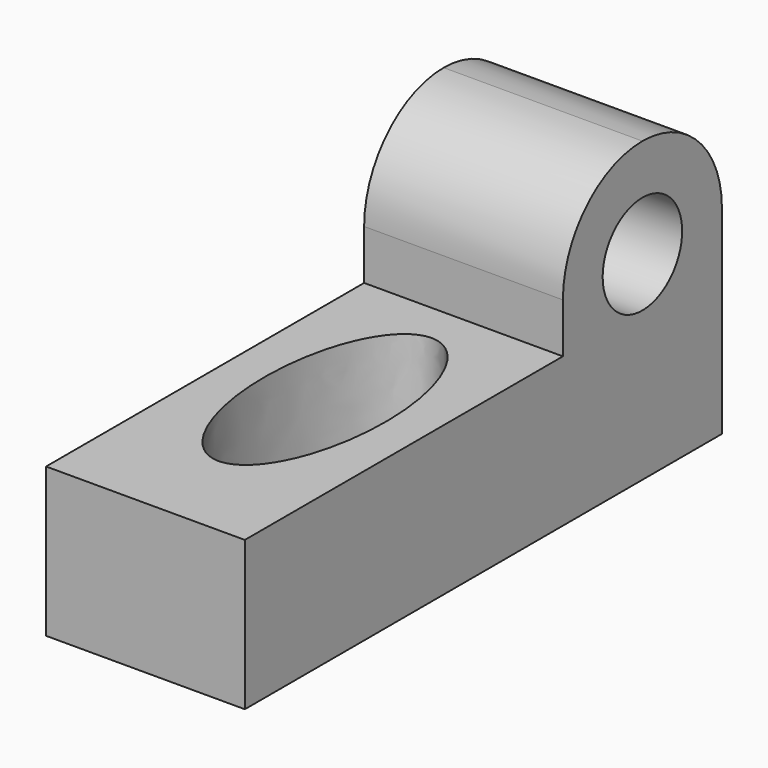
from build123d import *

# Parameters (mm, degrees)
F1_DEPTH = 25.4
F2_R     = 6.35
F3_DEPTH = 25.4
F6_DEPTH = 25.4


with BuildPart() as f1:
    # F0 (on Right) → F1 (new body)
    with BuildSketch(Plane.YZ):
        Polygon((-76.2, 0), (0, 0), (0, 38.1), (-25.4, 38.1), (-25.4, 19.05), (-76.2, 19.05), align=None)
    extrude(amount=F1_DEPTH)

    # F2 (on face) → F3 (cut)
    with BuildSketch(Plane(origin=(0, 0, 0), x_dir=(0, -1, 0), z_dir=(-1, 0, 0))):
        with Locations((12.7, 25.4)):
            Circle(F2_R)
        with BuildLine():
            ThreePointArc((0, 25.4), (3.719744, 34.380256), (12.7, 38.1))
            Line((12.7, 38.1), (0, 38.1))
            Line((0, 38.1), (0, 25.4))
        make_face()
        with BuildLine():
            ThreePointArc((12.7, 38.1), (21.680256, 34.380256), (25.4, 25.4))
            Line((25.4, 25.4), (25.4, 38.1))
            Line((25.4, 38.1), (12.7, 38.1))
        make_face()
    extrude(amount=-F3_DEPTH, mode=Mode.SUBTRACT)

    # F5 (on face) → F6 (cut)
    with BuildSketch(Plane.XY.offset(19.05)):
        with BuildLine():
            add(Edge.make_bspline(
                [(12.690173, -64.53418), (26.108709, -64.53418), (19.399441, -38.999069), (12.690173, -13.463959), (5.980906, -38.999069), (-0.728362, -64.53418), (12.690173, -64.53418)],
                knots=[0, 0, 0, 2.094395, 2.094395, 4.18879, 4.18879, 6.283185, 6.283185, 6.283185], degree=2, weights=[1, 0.5, 1, 0.5, 1, 0.5, 1]))
        make_face()
    extrude(amount=-F6_DEPTH, mode=Mode.SUBTRACT)


solid = f1.part
